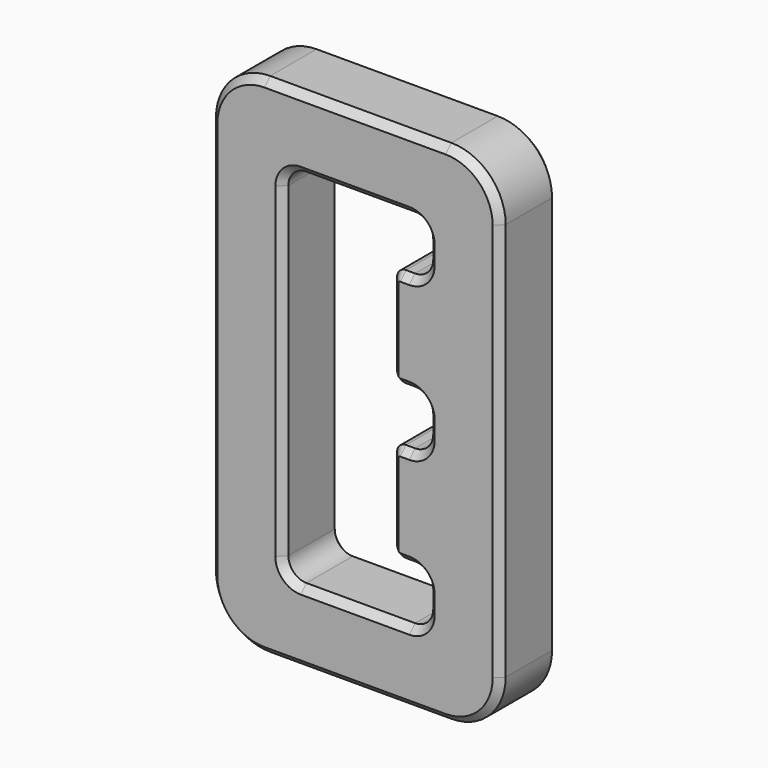
from build123d import *

# Parameters (mm, degrees)
SKETCH006_W             = 16
SKETCH006_H             = 28
PAD001_DEPTH            = 4
FILLET002_R             = 3
FILLET003_R             = 1
FILLET004_R             = 0.5
CHAMFER005_SIZE         = 0.4
BODY002_PLACEMENT_ANGLE = 180


with BuildPart() as part:
    # Sketch006 → Pad001 (new body)
    with BuildSketch(Plane.XZ):
        with Locations((8, 14)):
            Rectangle(SKETCH006_W, SKETCH006_H)
        Polygon((4, 24), (12, 24), (12, 4), (4, 4), (4, 7), (6, 7), (6, 12.5), (4, 12.5), (4, 15.5), (6, 15.5), (6, 21), (4, 21), align=None, mode=Mode.SUBTRACT)
    extrude(amount=PAD001_DEPTH)

    # Fillet002
    fillet002_edges = [part.edges().sort_by_distance(p)[0] for p in [
        (0, -2, 0),
        (0, -2, 28),
        (16, -2, 28),
        (16, -2, 0),
    ]]
    fillet(fillet002_edges, radius=FILLET002_R)

    # Fillet003
    fillet003_edges = [part.edges().sort_by_distance(p)[0] for p in [
        (12, -2, 4),
        (12, -2, 24),
        (4, -2, 24),
        (4, -2, 15.5),
        (4, -2, 7),
        (4, -2, 21),
        (4, -2, 12.5),
        (4, -2, 4),
    ]]
    fillet(fillet003_edges, radius=FILLET003_R)

    # Fillet004
    fillet004_edges = [part.edges().sort_by_distance(p)[0] for p in [
        (6, -2, 21),
        (6, -2, 15.5),
        (6, -2, 12.5),
        (6, -2, 7),
    ]]
    fillet(fillet004_edges, radius=FILLET004_R)

    # Chamfer005
    chamfer005_edges = [part.edges().sort_by_distance(p)[0] for p in [
        (5.25, 0, 21),
        (5.853553, 0, 20.853553),
        (4.292893, 0, 21.292893),
        (6, 0, 18.25),
        (4, 0, 22.5),
        (5.853553, 0, 15.646447),
        (4.292893, 0, 23.707107),
        (5.25, 0, 15.5),
        (8, 0, 24),
        (4.292893, 0, 15.207107),
        (11.707107, 0, 23.707107),
        (4, 0, 14),
        (12, 0, 14),
        (4.292893, 0, 12.792893),
        (11.707107, 0, 4.292893),
        (5.25, 0, 12.5),
        (8, 0, 4),
        (5.853553, 0, 12.353553),
        (4.292893, 0, 4.292893),
        (6, 0, 9.75),
        (4, 0, 5.5),
        (5.853553, 0, 7.146447),
        (4.292893, 0, 6.707107),
        (5.25, 0, 7),
        (8, 0, 0),
        (0.87868, 0, 0.87868),
        (15.12132, 0, 0.87868),
        (0, 0, 14),
        (16, 0, 14),
        (0.87868, 0, 27.12132),
        (15.12132, 0, 27.12132),
        (8, 0, 28),
        (5.25, -4, 21),
        (5.853553, -4, 20.853553),
        (4.292893, -4, 21.292893),
        (6, -4, 18.25),
        (4, -4, 22.5),
        (5.853553, -4, 15.646447),
        (4.292893, -4, 23.707107),
        (5.25, -4, 15.5),
        (8, -4, 24),
        (4.292893, -4, 15.207107),
        (11.707107, -4, 23.707107),
        (4, -4, 14),
        (12, -4, 14),
        (4.292893, -4, 12.792893),
        (11.707107, -4, 4.292893),
        (5.25, -4, 12.5),
        (8, -4, 4),
        (5.853553, -4, 12.353553),
        (4.292893, -4, 4.292893),
        (6, -4, 9.75),
        (4, -4, 5.5),
        (5.853553, -4, 7.146447),
        (4.292893, -4, 6.707107),
        (5.25, -4, 7),
        (8, -4, 0),
        (0.87868, -4, 0.87868),
        (15.12132, -4, 0.87868),
        (0, -4, 14),
        (16, -4, 14),
        (0.87868, -4, 27.12132),
        (15.12132, -4, 27.12132),
        (8, -4, 28),
    ]]
    chamfer(chamfer005_edges, length=CHAMFER005_SIZE)


with BuildPart() as part_1:
    # Body002 placement: moved
    add(part.part.moved(Location((24, 9, 23))).rotate(Axis((24, 9, 23), (0, 1, 0)), BODY002_PLACEMENT_ANGLE))


solid = part_1.part
